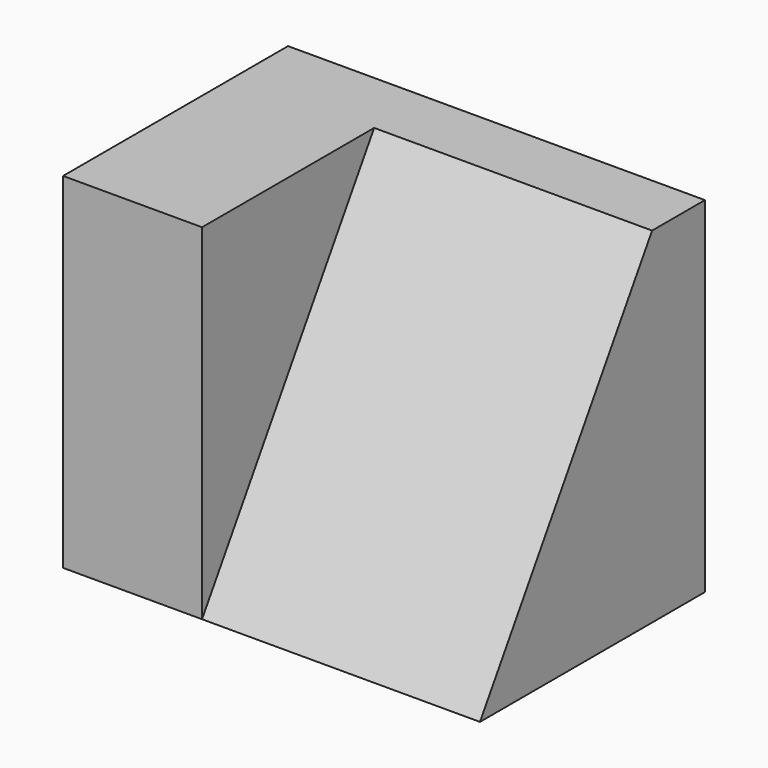
from build123d import *

# Parameters (mm, degrees)
F0_W     = 25.6966426969
F0_H     = 31.5367914736
F1_DEPTH = 38.1
F3_DEPTH = 25.4
F4_DEPTH = 50.8


with BuildPart() as f1:
    # F0 (on Right) → F1 (new body)
    with BuildSketch(Plane.YZ):
        with Locations((-24.9179564416, 15.7683957368)):
            Rectangle(F0_W, F0_H)
    extrude(amount=F1_DEPTH)

    # F2 (on face) → F3 (join)
    with BuildSketch(Plane.YZ.offset(38.1)):
        Polygon((-37.7662777901, 0), (-18.1044526398, 31.5367914736), (-37.7662777901, 31.5367914736), align=None)
    extrude(amount=F3_DEPTH)

    # F4 (cut): a face of the model
    f4_faces = [f1.faces().sort_by_distance(p)[0] for p in [
        (63.5, -31.2123360733, 21.0245276491),
    ]]
    extrude(f4_faces, amount=-F4_DEPTH, mode=Mode.SUBTRACT)


solid = f1.part
